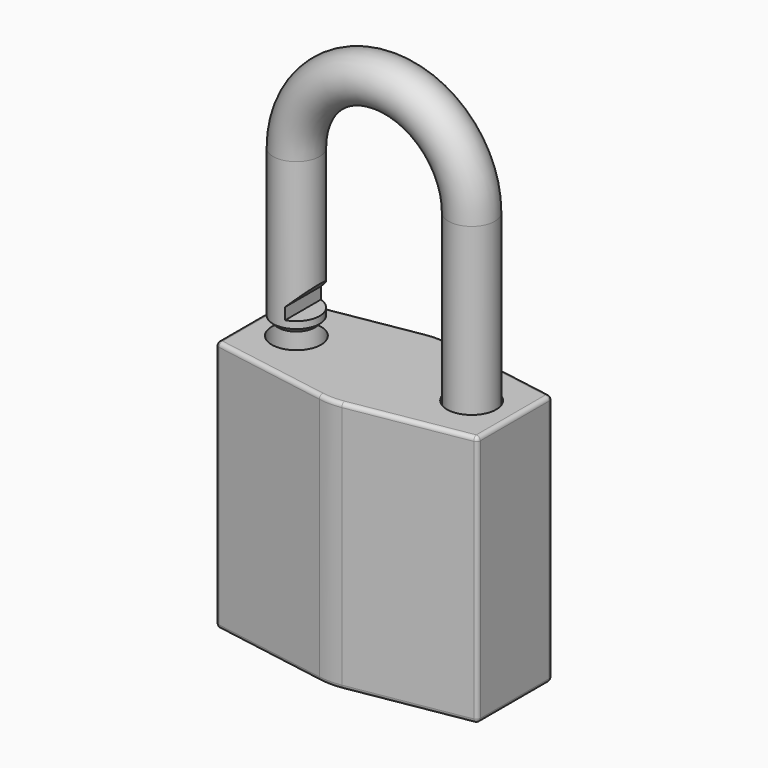
from build123d import *

# Parameters (mm, degrees)
PAD_DEPTH            = 19
SKETCH001_R          = 1.85
POCKET_DEPTH         = 5.9
FILLET_R             = 0.3
SKETCH003_R          = 1.75
POCKET001_DEPTH      = 1.751
POCKET001_DEPTH_BACK = -1.751
CHAMFER_SIZE         = 0.35


with BuildPart() as body:
    # Sketch → Pad (new body)
    with BuildSketch(Plane.XY):
        with BuildLine():
            ThreePointArc((0.854008, 5.027989), (0, 5.1), (-0.854008, 5.027989))
            Line((-9.85, 3.5), (-0.854008, 5.027989))
            Line((-9.85, 3.5), (-9.85, -3.5))
            Line((-0.853998, -5.02799), (-9.85, -3.5))
            ThreePointArc((-0.853998, -5.02799), (0, -5.1), (0.853998, -5.02799))
            Line((0.853998, -5.02799), (9.85, -3.5))
            Line((9.85, 3.5), (9.85, -3.5))
            Line((0.854008, 5.027989), (9.85, 3.5))
        make_face()
    extrude(amount=PAD_DEPTH)

    # Sketch001 → Pocket (cut)
    with BuildSketch(Plane.XY.offset(19)):
        with Locations((-6.6, 0)):
            Circle(SKETCH001_R)
        with Locations((6.6, 0)):
            Circle(SKETCH001_R)
    extrude(amount=-POCKET_DEPTH, mode=Mode.SUBTRACT)

    # Fillet
    fillet_edges = [body.edges().sort_by_distance(p)[0] for p in [
        (-9.85, -3.5, 9.5),
        (9.85, -3.5, 9.5),
        (9.85, 3.5, 9.5),
        (-9.85, 3.5, 9.5),
        (-5.352004, 4.263994, 19),
        (0, 5.1, 19),
        (5.352004, 4.263994, 19),
        (9.85, 0, 19),
        (5.351999, -4.263995, 19),
        (0, -5.1, 19),
        (-5.351999, -4.263995, 19),
        (-5.352004, 4.263994, 0),
        (0, 5.1, 0),
        (5.352004, 4.263994, 0),
        (-9.85, 0, 0),
        (-5.351999, -4.263995, 0),
        (5.351999, -4.263995, 0),
        (0, -5.1, 0),
        (9.85, 0, 0),
        (-9.85, 0, 19),
    ]]
    fillet(fillet_edges, radius=FILLET_R)


with BuildPart() as obj1:
    # AdditivePipe: sweep along a path in Sketch002
    with BuildLine(Plane.XZ) as additivepipe_path:
        Line((6.6, 0), (6.6, 14.45))
        ThreePointArc((6.6, 14.45), (0, 21.05), (-6.6, 14.45))
        Line((-6.6, 14.45), (-6.6, 3))
    # Sketch003 → AdditivePipe (sweep)
    with BuildSketch(Plane.XY):
        with Locations((6.6, 0)):
            Circle(SKETCH003_R)
    sweep(path=additivepipe_path.line)

    # Sketch004 → Pocket001 (cut, two sides)
    with BuildSketch(Plane.XZ) as pocket001_sk:
        Polygon((-2.6, 8.25), (-6.1, 4.75), (-6.1, 3.875), (-2.6, 3.875), align=None)
    extrude(amount=-POCKET001_DEPTH, mode=Mode.SUBTRACT)
    extrude(pocket001_sk.sketch, amount=-POCKET001_DEPTH_BACK, mode=Mode.SUBTRACT)

    # Chamfer
    chamfer_edges = [obj1.edges().sort_by_distance(p)[0] for p in [
        (-4.85, 0, 3),
    ]]
    chamfer(chamfer_edges, length=CHAMFER_SIZE)


with BuildPart() as obj1_1:
    # Body001 placement: moved
    add(obj1.part.moved(Location((0, 0, 17))))


solid = Compound([body.part, obj1_1.part])
